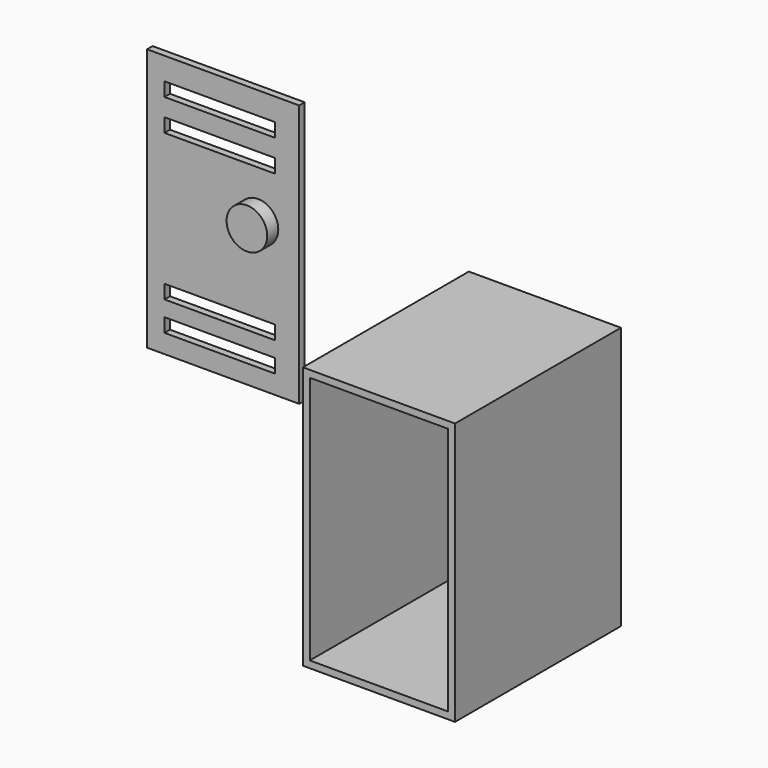
from build123d import *

# Parameters (mm, degrees)
F0_W     = 279.4
F0_H     = 482.6
F1_DEPTH = 381
F2_W     = 279.4
F2_H     = 482.6
F3_DEPTH = 12.7
F4_T     = -12.7
F5_W     = 203.2
F5_H     = 25.4
F6_DEPTH = 25.4
F7_R     = 37.34784
F8_DEPTH = 25.4


with BuildPart() as f1:
    # F0 (on Front) → F1 (new body)
    with BuildSketch(Plane.XZ):
        with Locations((-10.872711, 170.661798)):
            Rectangle(F0_W, F0_H)
    extrude(amount=F1_DEPTH)

    # F4
    f4_openings = [f1.faces().sort_by_distance(p)[0] for p in [
        (-10.872711, -381, 170.661798),
    ]]
    offset(amount=F4_T, openings=f4_openings)


with BuildPart() as f3:
    # F2 (on face) → F3 (new body)
    with BuildSketch(Plane(origin=(0, 0, 0), x_dir=(-1, 0, 0), z_dir=(0, 1, 0))):
        with Locations((601.926123, 337.915613)):
            Rectangle(F2_W, F2_H)
    extrude(amount=F3_DEPTH)

    # F5 (on face) → F6 (cut)
    with BuildSketch(Plane.XZ):
        with Locations((-608.037659, 525.171259)):
            Rectangle(F5_W, F5_H)
        with Locations((-608.037659, 467.10194)):
            Rectangle(F5_W, F5_H)
        with Locations((-608.037659, 197.750875)):
            Rectangle(F5_W, F5_H)
        with Locations((-608.037659, 143.717357)):
            Rectangle(F5_W, F5_H)
    extrude(amount=-F6_DEPTH, mode=Mode.SUBTRACT)

    # F7 (on face) → F8 (join)
    with BuildSketch(Plane.XZ):
        with Locations((-537.941337, 366.113454)):
            Circle(F7_R)
    extrude(amount=F8_DEPTH)


solid = Compound([f1.part, f3.part])
